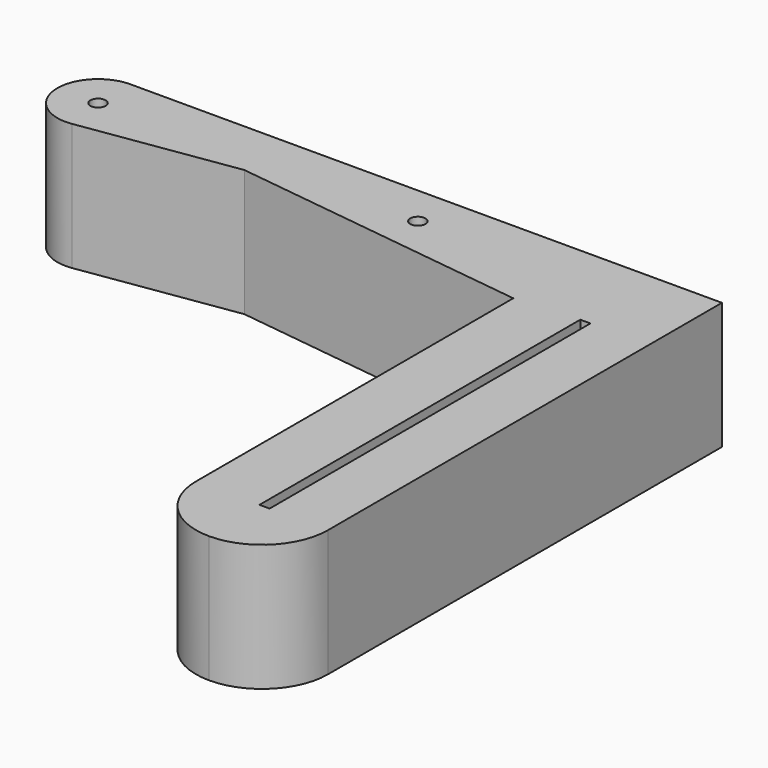
from build123d import *

# Parameters (mm, degrees)
F0_W     = 2
F0_H     = 79
F0_R     = 1.5
F1_DEPTH = 25


with BuildPart() as f1:
    # F0 (on Top) → F1 (new body)
    with BuildSketch(Plane.XY):
        with BuildLine():
            Line((116.5, 8), (0, 8))
            ThreePointArc((0, 8), (-7.977735, -0.596449), (1.189577, -7.911062))
            Line((1.189577, -7.911062), (31.5, -3.353319))
            Line((31.5, -3.353319), (90.5, -10.871761))
            Line((90.5, -10.871761), (90.5, -89))
            ThreePointArc((90.5, -89), (94.307612, -98.192388), (103.5, -102))
            ThreePointArc((103.5, -102), (112.692388, -98.192388), (116.5, -89))
            Line((116.5, -89), (116.5, 8))
        make_face()
        with Locations((104, -49.5)):
            Rectangle(F0_W, F0_H, mode=Mode.SUBTRACT)
        Circle(F0_R, mode=Mode.SUBTRACT)
        with Locations((63, 0)):
            Circle(F0_R, mode=Mode.SUBTRACT)
    extrude(amount=F1_DEPTH)


solid = f1.part
